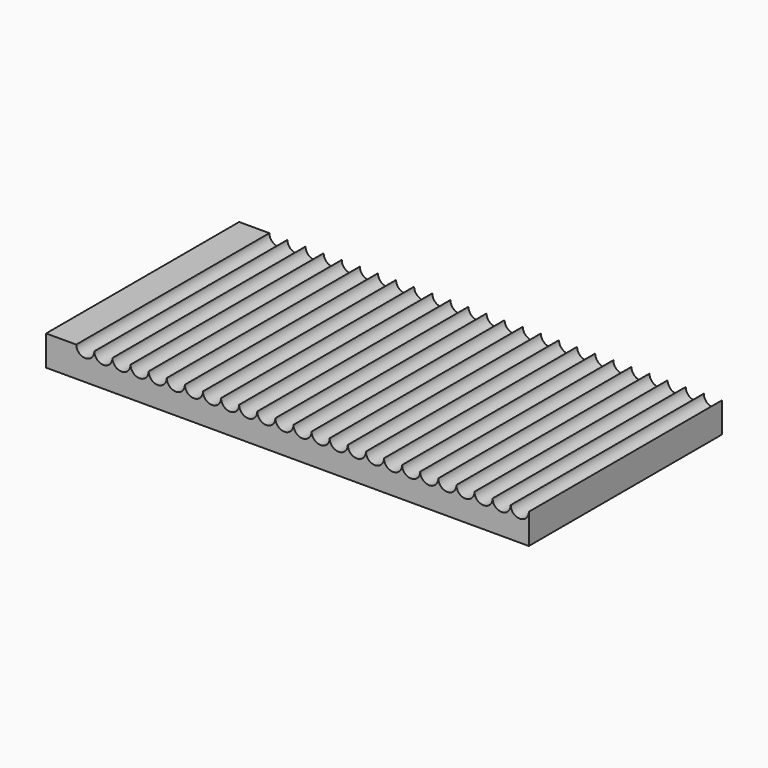
from build123d import *

# Parameters (mm, degrees)
F1_DEPTH = 25.4


with BuildPart() as f1:
    # F0 (on Front) → F1 (new body)
    with BuildSketch(Plane.XZ):
        with BuildLine():
            Line((0, 3.175), (0, 0))
            Line((0, 0), (50.8, 0))
            Line((50.8, 0), (50.8, 3.175))
            ThreePointArc((50.8, 3.175), (49.8475, 2.2225), (48.895, 3.175))
            ThreePointArc((48.895, 3.175), (47.9425, 2.2225), (46.99, 3.175))
            ThreePointArc((46.99, 3.175), (46.0375, 2.2225), (45.085, 3.175))
            ThreePointArc((45.085, 3.175), (44.1325, 2.2225), (43.18, 3.175))
            ThreePointArc((43.18, 3.175), (42.2275, 2.2225), (41.275, 3.175))
            ThreePointArc((41.275, 3.175), (40.3225, 2.2225), (39.37, 3.175))
            ThreePointArc((39.37, 3.175), (38.4175, 2.2225), (37.465, 3.175))
            ThreePointArc((37.465, 3.175), (36.5125, 2.2225), (35.56, 3.175))
            ThreePointArc((35.56, 3.175), (34.6075, 2.2225), (33.655, 3.175))
            ThreePointArc((33.655, 3.175), (32.7025, 2.2225), (31.75, 3.175))
            ThreePointArc((31.75, 3.175), (30.7975, 2.2225), (29.845, 3.175))
            ThreePointArc((29.845, 3.175), (28.8925, 2.2225), (27.94, 3.175))
            ThreePointArc((27.94, 3.175), (26.9875, 2.2225), (26.035, 3.175))
            ThreePointArc((26.035, 3.175), (25.0825, 2.2225), (24.13, 3.175))
            ThreePointArc((24.13, 3.175), (23.1775, 2.2225), (22.225, 3.175))
            ThreePointArc((22.225, 3.175), (21.2725, 2.2225), (20.32, 3.175))
            ThreePointArc((20.32, 3.175), (19.3675, 2.2225), (18.415, 3.175))
            ThreePointArc((18.415, 3.175), (17.4625, 2.2225), (16.51, 3.175))
            ThreePointArc((16.51, 3.175), (15.5575, 2.2225), (14.605, 3.175))
            ThreePointArc((14.605, 3.175), (13.6525, 2.2225), (12.7, 3.175))
            ThreePointArc((12.7, 3.175), (11.7475, 2.2225), (10.795, 3.175))
            ThreePointArc((10.795, 3.175), (9.8425, 2.2225), (8.89, 3.175))
            ThreePointArc((8.89, 3.175), (7.9375, 2.2225), (6.985, 3.175))
            ThreePointArc((6.985, 3.175), (6.0325, 2.2225), (5.08, 3.175))
            ThreePointArc((5.08, 3.175), (4.1275, 2.2225), (3.175, 3.175))
            Line((3.175, 3.175), (0, 3.175))
        make_face()
    extrude(amount=F1_DEPTH)


solid = f1.part
